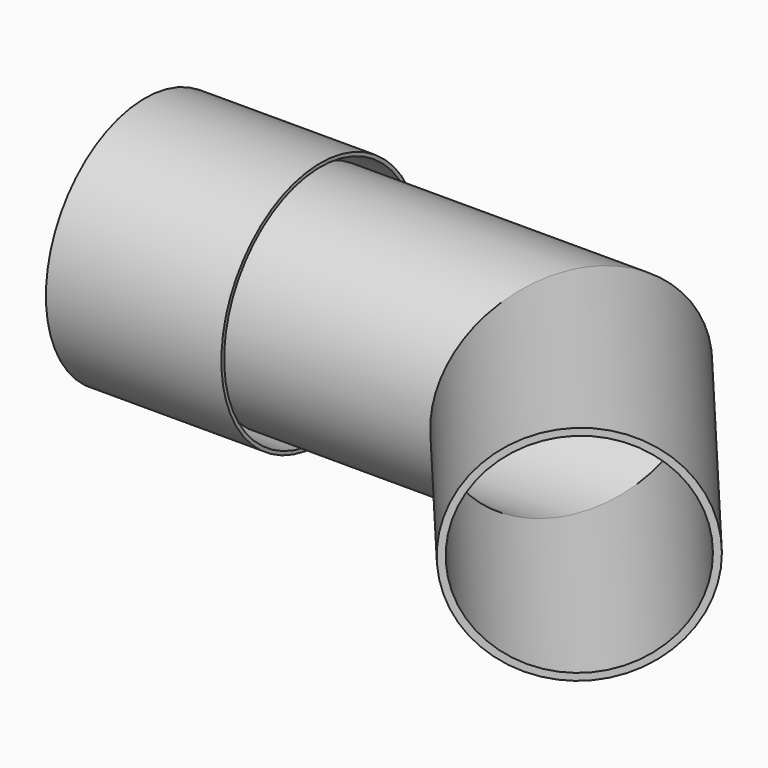
from build123d import *

# Parameters (mm, degrees)
F2_R        = 31.75
F2_R_2      = 29.7500006855
F3_DEPTH    = 25
F3_FACE_R   = 31.75
F3_FACE_R_2 = 29.7500006855
F6_R        = 35.2899990976
F6_R_2      = 34.29
F7_DEPTH    = 50


with BuildPart() as f3:
    # F2 (on offset) → F3 (new body)
    with BuildSketch(Plane.YZ.offset(-76.8)):
        Circle(F2_R)
        Circle(F2_R_2, mode=Mode.SUBTRACT)
    extrude(amount=F3_DEPTH)

    # F4: sweep along a path in F0
    with BuildLine(Plane.XY) as f4_path:
        Line((-76.2, 0), (0, 0))
        Line((0, 0), (48.9804158581, -58.3725865657))
    # F3_face (on face) → F4 (sweep)
    with BuildSketch(Plane.YZ.offset(-51.8)):
        Circle(F3_FACE_R)
        Circle(F3_FACE_R_2, mode=Mode.SUBTRACT)
    sweep(path=f4_path.line, transition=Transition.RIGHT)


with BuildPart() as f7:
    # F6 (on offset) → F7 (new body)
    with BuildSketch(Plane.YZ.offset(-71.5)):
        Circle(F6_R)
        Circle(F6_R_2, mode=Mode.SUBTRACT)
    extrude(amount=-F7_DEPTH)


solid = Compound([f3.part, f7.part])
